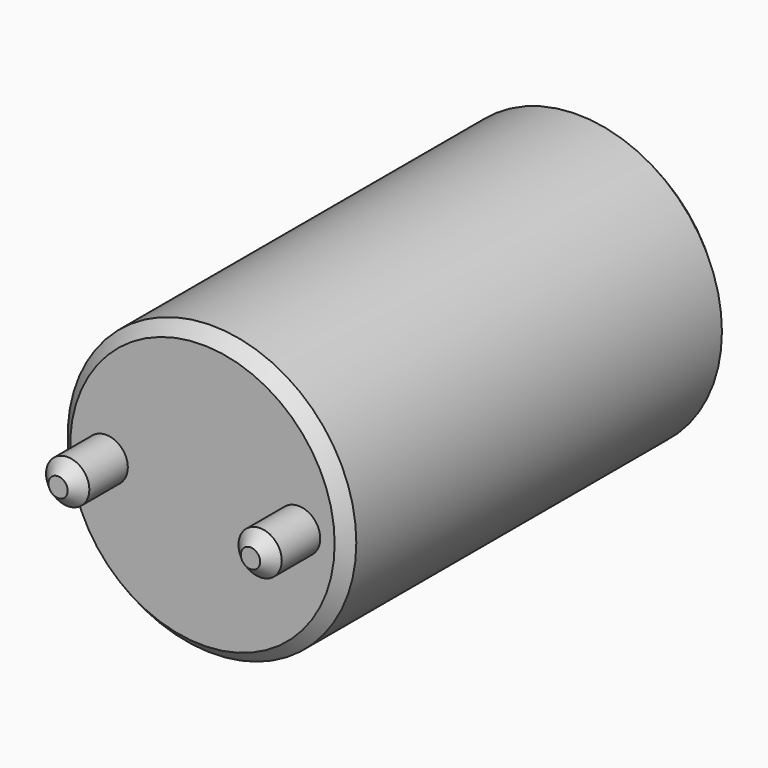
from build123d import *

# Parameters (mm, degrees)
F0_R      = 9
F1_DEPTH  = 25
F0_R_2    = 60
F2_DEPTH  = 200
F3_SIZE   = 5
F3_2_SIZE = 5
F4_SIZE   = 5


with BuildPart() as f1:
    # F0 (on Front) → F1 (new body)
    with BuildSketch(Plane.XZ):
        with Locations((-40, 0)):
            Circle(F0_R)
        with Locations((40, 0)):
            Circle(F0_R)
    extrude(amount=F1_DEPTH)

    # F3#2
    f3_2_edges = [f1.edges().sort_by_distance(p)[0] for p in [
        (-49, -25, 0),
    ]]
    chamfer(f3_2_edges, length=F3_2_SIZE)

    # F4
    f4_edges = [f1.edges().sort_by_distance(p)[0] for p in [
        (31, -25, 0),
    ]]
    chamfer(f4_edges, length=F4_SIZE)


with BuildPart() as f2:
    # F0 (on Front) → F2 (new body)
    with BuildSketch(Plane.XZ):
        Circle(F0_R_2)
        with Locations((-40, 0)):
            Circle(F0_R, mode=Mode.SUBTRACT)
        with Locations((40, 0)):
            Circle(F0_R, mode=Mode.SUBTRACT)
    extrude(amount=-F2_DEPTH)

    # F3
    f3_edges = [f2.edges().sort_by_distance(p)[0] for p in [
        (-60, 200, 0),
        (60, 100, 0),
        (-60, 0, 0),
    ]]
    chamfer(f3_edges, length=F3_SIZE)


solid = Compound([f1.part, f2.part])
